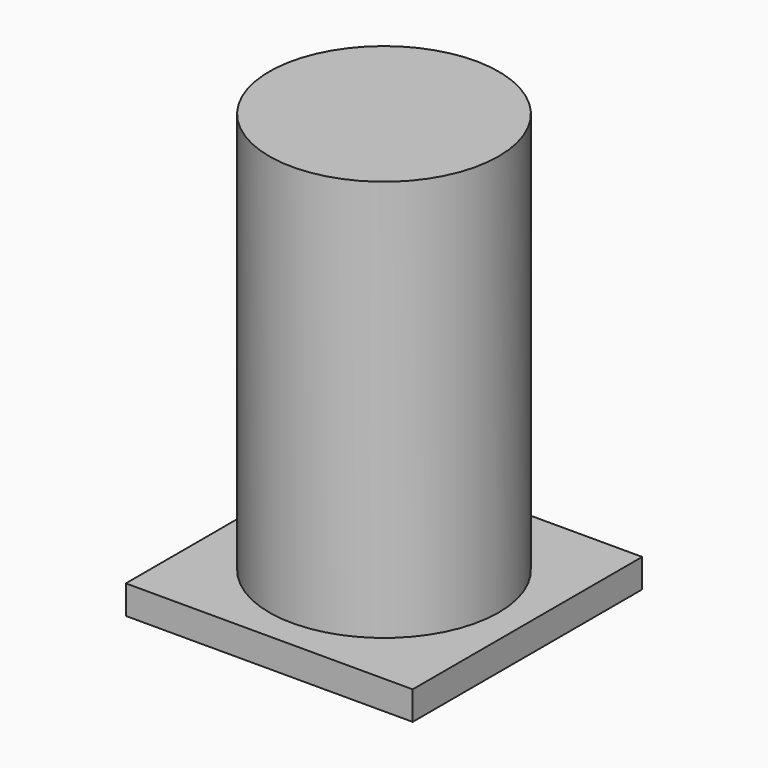
from build123d import *

# Parameters (mm, degrees)
F0_R     = 10.16
F1_DEPTH = 38.1
F2_W     = 25.4
F2_H     = 25.4
F3_DEPTH = 2.54


with BuildPart() as f1:
    # F0 (on Top) → F1 (new body)
    with BuildSketch(Plane.XY):
        Circle(F0_R)
    extrude(amount=F1_DEPTH)

    # F2 (on Top) → F3 (join)
    with BuildSketch(Plane.XY):
        Rectangle(F2_W, F2_H)
    extrude(amount=F3_DEPTH)


solid = f1.part
